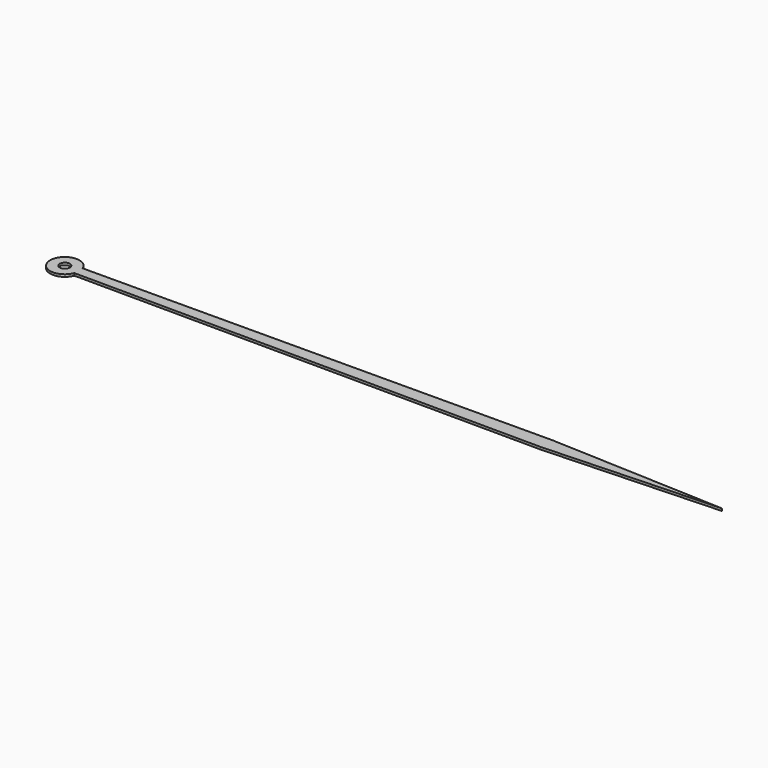
from build123d import *

# Parameters (mm, degrees)
F0_R     = 1.75
F1_DEPTH = 0.8


with BuildPart() as f1:
    # F0 (on Top) → F1 (new body)
    with BuildSketch(Plane.XY):
        with BuildLine():
            ThreePointArc((4.67573, -1.771313), (4.918264, -0.900375), (5, 0))
            ThreePointArc((5, 0), (4.918264, 0.900375), (4.67573, 1.771313))
            ThreePointArc((4.67573, 1.771313), (-5, 0), (4.67573, -1.771313))
        make_face()
        Circle(F0_R, mode=Mode.SUBTRACT)
        with BuildLine():
            ThreePointArc((4.67573, 1.771313), (4.918264, 0.900375), (5, 0))
            ThreePointArc((5, 0), (4.918264, -0.900375), (4.67573, -1.771313))
            Line((4.67573, -1.771313), (164.674071, -2.5))
            Line((164.674071, -2.5), (224.621965, 0))
            Line((224.621965, 0), (164.674071, 2.5))
            Line((164.674071, 2.5), (4.67573, 1.771313))
        make_face()
    extrude(amount=F1_DEPTH)


solid = f1.part
